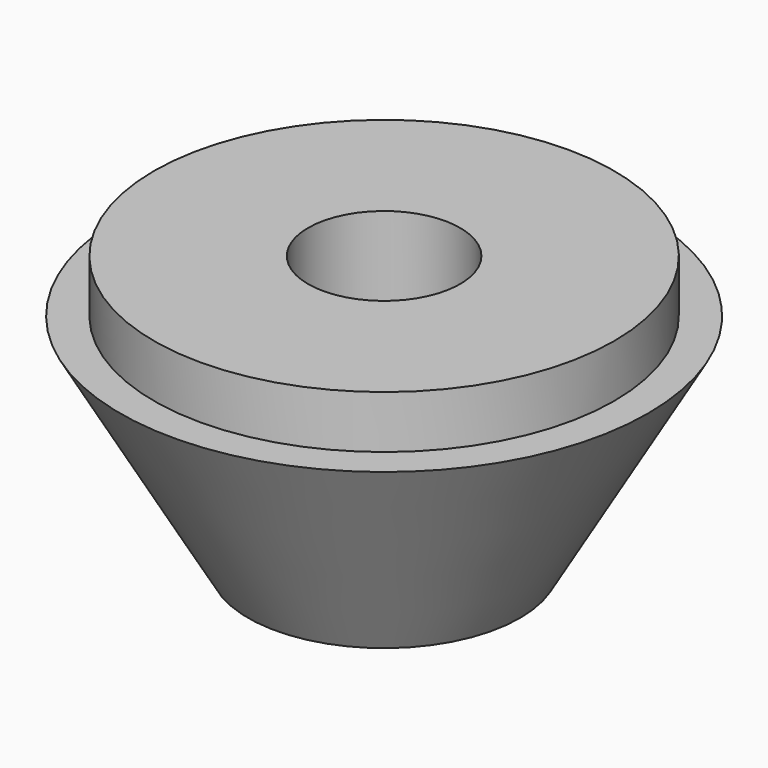
from build123d import *

# Parameters (mm, degrees)
F0_R     = 27.686
F1_DEPTH = 6.35
F2_D     = 18.288
F3_R     = 31.75
F5_DEPTH = 26.67
F5_TAPER = 30
F7_D     = 18.288


with BuildPart() as f1:
    # F0 (on Top) → F1 (new body)
    with BuildSketch(Plane.XY):
        Circle(F0_R)
    extrude(amount=F1_DEPTH)

    # F2 (through all)
    with Locations(Plane(origin=(0, 0, 0), x_dir=(1, 0, 0), z_dir=(0, 0, -1))):
        with Locations((0, 0)):
            Hole(F2_D / 2)

    # F3 (on Top) → F5 (join)
    with BuildSketch(Plane.XY):
        Circle(F3_R)
    extrude(amount=-F5_DEPTH, taper=F5_TAPER)

    # F7 (through all)
    with Locations(Plane(origin=(0, 0, -26.67), x_dir=(1, 0, 0), z_dir=(0, 0, -1))):
        with Locations((0, 0)):
            Hole(F7_D / 2)


solid = f1.part
